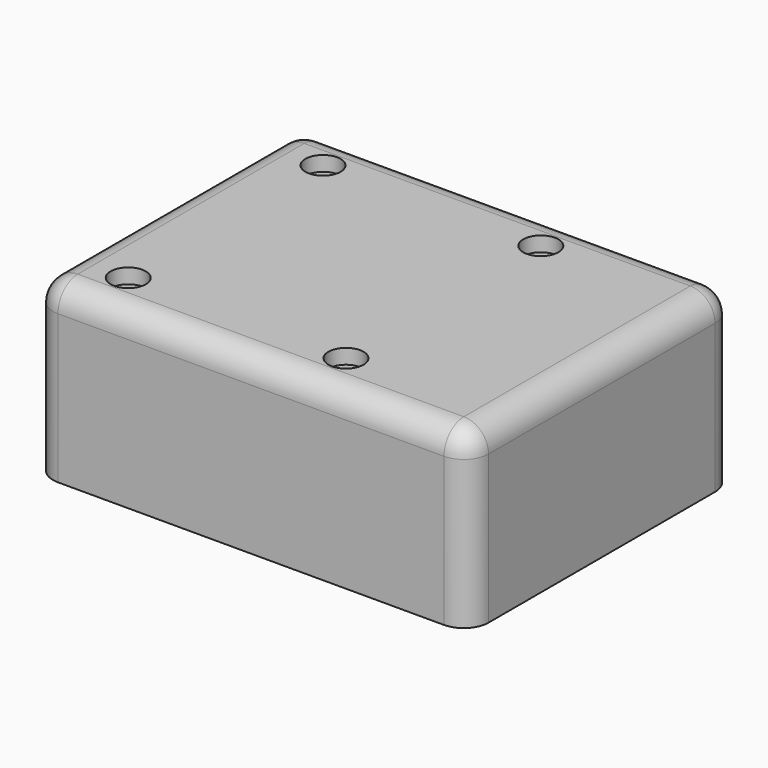
from build123d import *

# Parameters (mm, degrees)
F1_DEPTH  = 35
F3_DEPTH  = 33
F5_R      = 4
F6_DEPTH  = 16.2
F4_R      = 2.25
F7_DEPTH  = 25
F8_R      = 3.55
F9_DEPTH  = 3
F10_R     = 4.65
F11_DEPTH = 5
F12_R     = 5


with BuildPart() as f1:
    # F0 (on Top) → F1 (new body)
    with BuildSketch(Plane.XY):
        with BuildLine():
            Line((39, 33.6), (-39, 33.6))
            ThreePointArc((-39, 33.6), (-42.5355339059, 32.1355339059), (-44, 28.6))
            Line((-44, 28.6), (-44, -28.6))
            ThreePointArc((-44, -28.6), (-42.5355339059, -32.1355339059), (-39, -33.6))
            Line((-39, -33.6), (39, -33.6))
            ThreePointArc((39, -33.6), (42.5355339059, -32.1355339059), (44, -28.6))
            Line((44, -28.6), (44, 28.6))
            ThreePointArc((44, 28.6), (42.5355339059, 32.1355339059), (39, 33.6))
        make_face()
        with BuildLine():
            ThreePointArc((-41.65, 26.15), (-40.1855339059, 29.6855339059), (-36.65, 31.15))
            Line((-36.65, 31.15), (36.65, 31.15))
            ThreePointArc((36.65, 31.15), (40.1855339059, 29.6855339059), (41.65, 26.15))
            Line((41.65, 26.15), (41.65, -26.15))
            ThreePointArc((41.65, -26.15), (40.1855339059, -29.6855339059), (36.65, -31.15))
            Line((36.65, -31.15), (-36.65, -31.15))
            ThreePointArc((-36.65, -31.15), (-40.1855339059, -29.6855339059), (-41.65, -26.15))
            Line((-41.65, -26.15), (-41.65, 26.15))
        make_face(mode=Mode.SUBTRACT)
        with BuildLine():
            Line((36.65, 31.15), (-36.65, 31.15))
            ThreePointArc((-36.65, 31.15), (-40.1855339059, 29.6855339059), (-41.65, 26.15))
            Line((-41.65, 26.15), (-41.65, -26.15))
            ThreePointArc((-41.65, -26.15), (-40.1855339059, -29.6855339059), (-36.65, -31.15))
            Line((-36.65, -31.15), (36.65, -31.15))
            ThreePointArc((36.65, -31.15), (40.1855339059, -29.6855339059), (41.65, -26.15))
            Line((41.65, -26.15), (41.65, 26.15))
            ThreePointArc((41.65, 26.15), (40.1855339059, 29.6855339059), (36.65, 31.15))
        make_face()
    extrude(amount=F1_DEPTH)

    # F2 (on Top) → F3 (cut)
    with BuildSketch(Plane.XY):
        with BuildLine():
            ThreePointArc((41.65, 26.15), (40.1855339059, 29.6855339059), (36.65, 31.15))
            Line((36.65, 31.15), (-36.65, 31.15))
            ThreePointArc((-36.65, 31.15), (-40.1855339059, 29.6855339059), (-41.65, 26.15))
            Line((-41.65, 26.15), (-41.65, -26.15))
            ThreePointArc((-41.65, -26.15), (-40.1855339059, -29.6855339059), (-36.65, -31.15))
            Line((-36.65, -31.15), (36.65, -31.15))
            ThreePointArc((36.65, -31.15), (40.1855339059, -29.6855339059), (41.65, -26.15))
            Line((41.65, -26.15), (41.65, 26.15))
        make_face()
    extrude(amount=F3_DEPTH, mode=Mode.SUBTRACT)

    # F5 (on face) → F6 (join)
    with BuildSketch(Plane.XY.offset(35)):
        with Locations((-32, 24.6)):
            Circle(F5_R)
        with Locations((12, 24.6)):
            Circle(F5_R)
        with Locations((-32, -24.6)):
            Circle(F5_R)
        with Locations((12, -24.6)):
            Circle(F5_R)
    extrude(amount=-F6_DEPTH)

    # F4 (on face) → F7 (cut)
    with BuildSketch(Plane.XY.offset(35)):
        with Locations((-32, 24.6)):
            Circle(F4_R)
        with Locations((-32, -24.6)):
            Circle(F4_R)
        with Locations((12, 24.6)):
            Circle(F4_R)
        with Locations((12, -24.6)):
            Circle(F4_R)
    extrude(amount=-F7_DEPTH, mode=Mode.SUBTRACT)

    # F8 (on face) → F9 (cut)
    with BuildSketch(Plane.XY.offset(35)):
        with Locations((-32, 24.6)):
            Circle(F8_R)
        with Locations((12, 24.6)):
            Circle(F8_R)
        with Locations((12, -24.6)):
            Circle(F8_R)
        with Locations((-32, -24.6)):
            Circle(F8_R)
    extrude(amount=-F9_DEPTH, mode=Mode.SUBTRACT)

    # F10 (on face) → F11 (cut)
    with BuildSketch(Plane(origin=(-44, 0, 0), x_dir=(0, -1, 0), z_dir=(-1, 0, 0))):
        with Locations((0, 25)):
            Circle(F10_R)
    extrude(amount=-F11_DEPTH, mode=Mode.SUBTRACT)

    # F12
    f12_edges = [f1.edges().sort_by_distance(p)[0] for p in [
        (0, 33.6, 35),
    ]]
    fillet(f12_edges, radius=F12_R)


solid = f1.part
